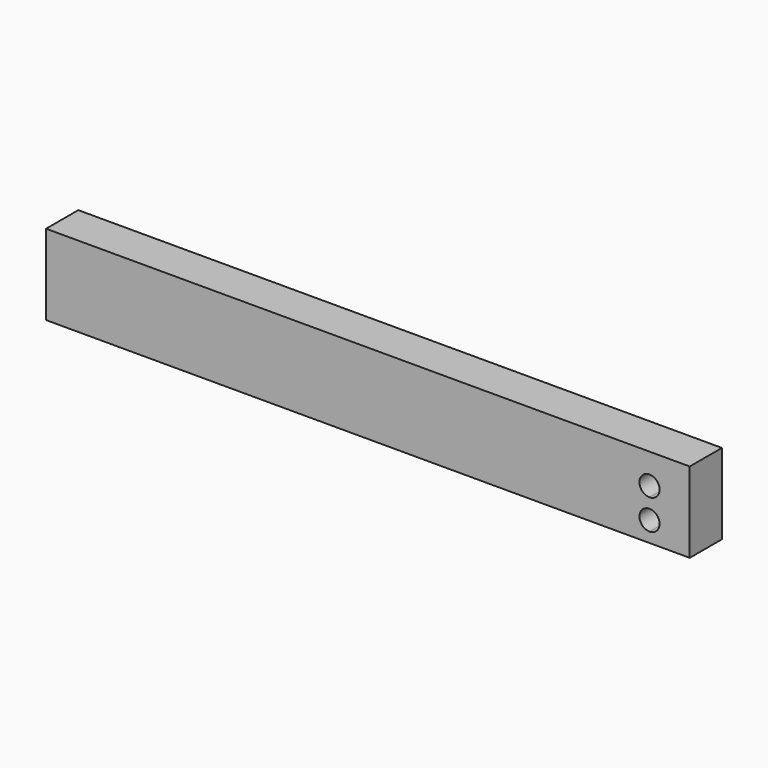
from build123d import *

# Parameters (mm, degrees)
F0_W     = 203.2
F0_H     = 25.4
F1_DEPTH = 12.7
F3_DEPTH = 25.4


with BuildPart() as f1:
    # F0 (on Front) → F1 (new body)
    with BuildSketch(Plane.XZ):
        with Locations((101.6, 12.7)):
            Rectangle(F0_W, F0_H)
    extrude(amount=F1_DEPTH)

    # F2 (on face) → F3 (cut)
    with BuildSketch(Plane.XZ.offset(12.7)):
        with BuildLine():
            ThreePointArc((193.675, 15.875), (188.254936, 18.120064), (190.5, 12.7))
            ThreePointArc((190.5, 12.7), (192.745064, 13.629936), (193.675, 15.875))
        make_face()
        with BuildLine():
            Line((190.5, 6.35), (190.5, 3.175))
            ThreePointArc((190.5, 3.175), (192.745064, 4.104936), (193.675, 6.35))
            ThreePointArc((193.675, 6.35), (192.745064, 8.595064), (190.5, 9.525))
            Line((190.5, 9.525), (190.5, 6.35))
        make_face()
        with BuildLine():
            ThreePointArc((190.5, 9.525), (187.325, 6.35), (190.5, 3.175))
            Line((190.5, 3.175), (190.5, 6.35))
            Line((190.5, 6.35), (190.5, 9.525))
        make_face()
    extrude(amount=-F3_DEPTH, mode=Mode.SUBTRACT)


solid = f1.part
